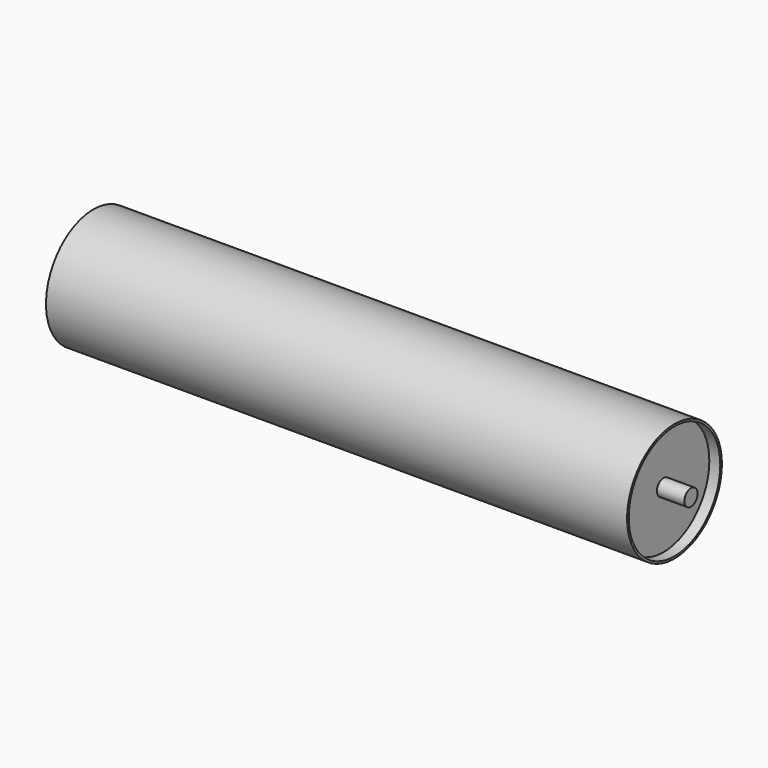
from build123d import *

# Parameters (mm, degrees)
F0_W = 19.05
F0_H = 113.50625


with BuildPart() as f1:
    # F0 (on Top) → F1 (revolve)
    with BuildSketch(Plane.XY):
        Polygon((-711.2, 0), (0, 0), (0, 19.05), (-628.65, 19.05), (-647.7, 19.05), (-711.2, 19.05), align=None)
        Polygon((0, 19.05), (0, 0), (711.2, 0), (711.2, 19.05), (647.7, 19.05), (628.65, 19.05), align=None)
    revolve(axis=Axis((-355.6, 0, 0), (-1, 0, 0)))


with BuildPart() as f2:
    # F0 (on Top) → F2 (revolve)
    with BuildSketch(Plane.XY):
        with Locations((638.175, 75.803125)):
            Rectangle(F0_W, F0_H)
    revolve(axis=Axis((-355.6, 0, 0), (-1, 0, 0)))


with BuildPart() as f3:
    # F0 (on Top) → F3 (revolve)
    with BuildSketch(Plane.XY):
        Polygon((-647.7, 132.55625), (-628.65, 132.55625), (0, 132.55625), (0, 137.31875), (-673.1, 137.31875), (-673.1, 132.55625), align=None)
        Polygon((0, 132.55625), (628.65, 132.55625), (647.7, 132.55625), (673.1, 132.55625), (673.1, 137.31875), (0, 137.31875), align=None)
    revolve(axis=Axis((-355.6, 0, 0), (-1, 0, 0)))


solid = Compound([f1.part, f2.part, f3.part])
